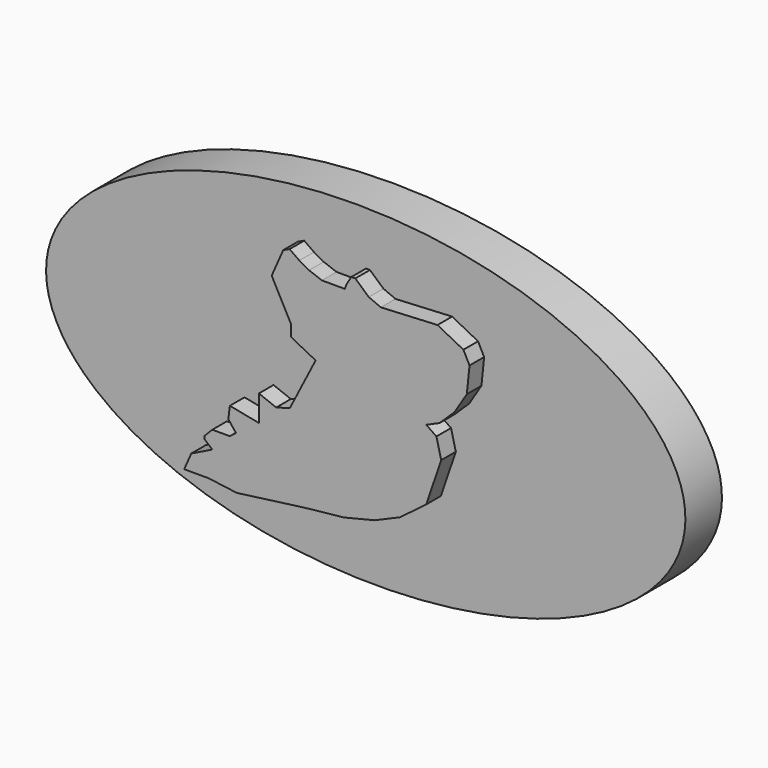
from build123d import *

# Parameters (mm, degrees)
F1_DEPTH = 6.35
F3_DEPTH = 2.54


with BuildPart() as f1:
    # F0 (on Front) → F1 (new body)
    with BuildSketch(Plane.XZ):
        with BuildLine():
            add(Edge.make_bspline(
                [(-18.083668, 44.958928), (-17.189102, 84.543503), (-84.294366, 66.257609), (-151.39963, 47.971716), (-85.188932, 26.673034), (-18.978234, 5.374353), (-18.083668, 44.958928)],
                knots=[0, 0, 0, 2.094395, 2.094395, 4.18879, 4.18879, 6.283185, 6.283185, 6.283185], degree=2, weights=[1, 0.5, 1, 0.5, 1, 0.5, 1]))
        make_face()
    extrude(amount=F1_DEPTH)

    # F2 (on face) → F3 (join)
    with BuildSketch(Plane.XZ.offset(6.35)):
        Polygon((-46.909872, 57.557799), (-50.510943, 59.410572), (-58.390658, 59.012964), (-60.066402, 59.721932), (-61.935503, 61.397679), (-62.485743, 61.397679), (-63.11325, 60.370646), (-63.410491, 59.644055), (-64.36827, 59.644055), (-66.581063, 59.644055), (-68.364508, 60.304593), (-69.718607, 61.064206), (-71.072282, 62.015671), (-71.963236, 61.597899), (-73.56349, 57.960986), (-72.26178, 55.503976), (-71.022642, 53.165072), (-70.872284, 52.881268), (-70.872284, 51.314235), (-67.456848, 49.566747), (-71.041666, 42.560279), (-72.937638, 42.0238), (-75.341001, 42.964142), (-75.341001, 40.141195), (-75.341001, 39.342325), (-79.375036, 40.141195), (-79.598169, 38.439818), (-78.53476, 37.085649), (-79.388463, 36.415248), (-81.819475, 36.415248), (-82.888916, 35.328712), (-82.888916, 34.883883), (-81.819475, 33.987477), (-84.743835, 32.551317), (-85.731177, 30.307376), (-82.354195, 30.307376), (-78.407675, 29.789797), (-75.428165, 30.185737), (-69.031484, 31.035775), (-63.568458, 31.614918), (-59.223298, 32.679364), (-55.725608, 34.18652), (-52.078605, 36.940381), (-49.994603, 43.043528), (-50.664458, 45.722958), (-52.078605, 46.690531), (-50.217886, 47.509246), (-48.139665, 49.529873), (-46.436699, 52.266783), (-46.061546, 55.905189), align=None)
    extrude(amount=F3_DEPTH)


solid = f1.part
